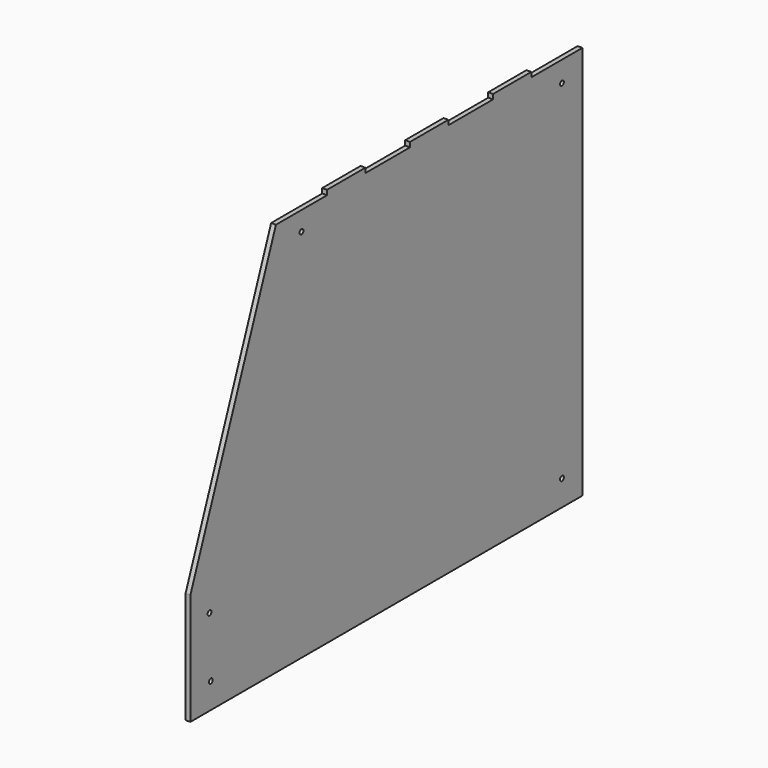
from build123d import *

# Parameters (mm, degrees)
F0_R     = 1.5
F1_DEPTH = 3


with BuildPart() as f1:
    # F0 (on Right) → F1 (new body)
    with BuildSketch(Plane.YZ):
        Polygon((113.5, 122), (113.5, 125), (83.5, 125), (83.5, 122), (48.5, 122), (48.5, 125), (18.5, 125), (18.5, 122), (-16.5, 122), (-16.5, 125), (-46.5, 125), (-46.5, 122), (-86.5, 122), (-153.5, -55), (-153.5, -125), (153.5, -125), (153.5, 122), align=None)
        with Locations((-137.5, -109)):
            Circle(F0_R, mode=Mode.SUBTRACT)
        with Locations((-138.5, -71)):
            Circle(F0_R, mode=Mode.SUBTRACT)
        with Locations((137.5, -109)):
            Circle(F0_R, mode=Mode.SUBTRACT)
        with Locations((-66.5, 110)):
            Circle(F0_R, mode=Mode.SUBTRACT)
        with Locations((137.5, 109)):
            Circle(F0_R, mode=Mode.SUBTRACT)
    extrude(amount=F1_DEPTH)


solid = f1.part
